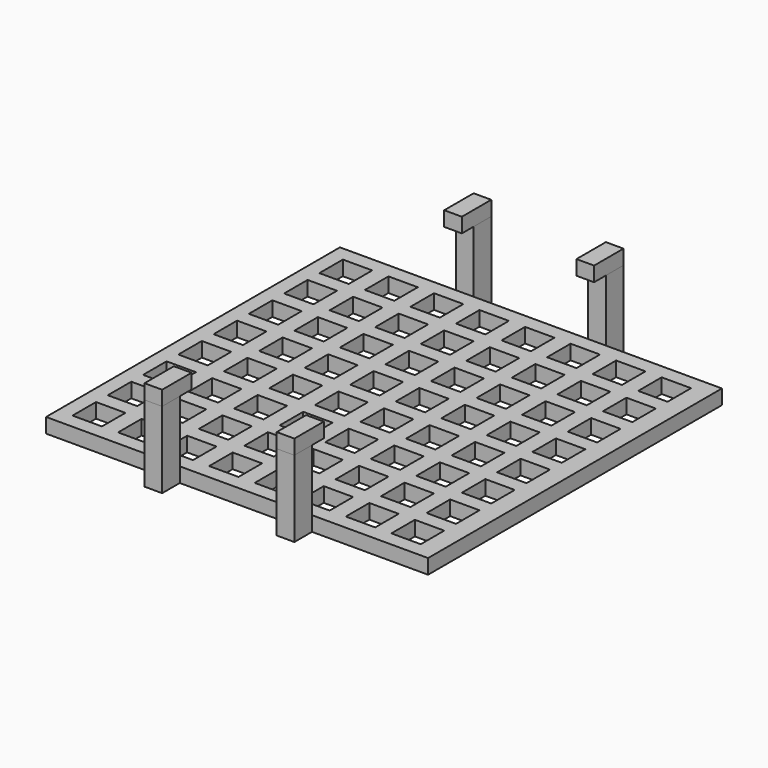
from build123d import *

# Parameters (mm, degrees)
F0_W     = 2
F0_H     = 2
F1_DEPTH = 1
F0_W_2   = 0.6
F0_H_2   = 1.5
F2_DEPTH = 5.2
F3_W     = 1.2
F3_H     = 2.5
F3_H_2   = 1
F3_H_3   = 1.5
F4_DEPTH = 1


with BuildPart() as f1:
    # F0 (on Top) → F1 (new body)
    with BuildSketch(Plane.XY):
        Polygon((5.1, -12.5), (13, -12.5), (13, 12.5), (5.1, 12.5), (4.5, 12.5), (3.9, 12.5), (-3.9, 12.5), (-4.5, 12.5), (-5.1, 12.5), (-13, 12.5), (-13, -12.5), (-5.1, -12.5), (-4.5, -12.5), (-3.9, -12.5), (3.9, -12.5), (4.5, -12.5), align=None)
        with Locations((-11, -10.5)):
            Rectangle(F0_W, F0_H, mode=Mode.SUBTRACT)
        with Locations((-11, -7.5)):
            Rectangle(F0_W, F0_H, mode=Mode.SUBTRACT)
        with Locations((-7.9, -10.5)):
            Rectangle(F0_W, F0_H, mode=Mode.SUBTRACT)
        with Locations((-7.9, -7.5)):
            Rectangle(F0_W, F0_H, mode=Mode.SUBTRACT)
        with Locations((-4.8, -10.5)):
            Rectangle(F0_W, F0_H, mode=Mode.SUBTRACT)
        with Locations((-4.8, -7.5)):
            Rectangle(F0_W, F0_H, mode=Mode.SUBTRACT)
        with Locations((-1.7, -10.5)):
            Rectangle(F0_W, F0_H, mode=Mode.SUBTRACT)
        with Locations((-1.7, -7.5)):
            Rectangle(F0_W, F0_H, mode=Mode.SUBTRACT)
        with Locations((-11, -4.5)):
            Rectangle(F0_W, F0_H, mode=Mode.SUBTRACT)
        with Locations((-7.9, -4.5)):
            Rectangle(F0_W, F0_H, mode=Mode.SUBTRACT)
        with Locations((-11, -1.5)):
            Rectangle(F0_W, F0_H, mode=Mode.SUBTRACT)
        with Locations((-7.9, -1.5)):
            Rectangle(F0_W, F0_H, mode=Mode.SUBTRACT)
        with Locations((-4.8, -4.5)):
            Rectangle(F0_W, F0_H, mode=Mode.SUBTRACT)
        with Locations((-1.7, -4.5)):
            Rectangle(F0_W, F0_H, mode=Mode.SUBTRACT)
        with Locations((-4.8, -1.5)):
            Rectangle(F0_W, F0_H, mode=Mode.SUBTRACT)
        with Locations((-1.7, -1.5)):
            Rectangle(F0_W, F0_H, mode=Mode.SUBTRACT)
        with Locations((1.4, -10.5)):
            Rectangle(F0_W, F0_H, mode=Mode.SUBTRACT)
        with Locations((1.4, -7.5)):
            Rectangle(F0_W, F0_H, mode=Mode.SUBTRACT)
        with Locations((4.5, -10.5)):
            Rectangle(F0_W, F0_H, mode=Mode.SUBTRACT)
        with Locations((4.5, -7.5)):
            Rectangle(F0_W, F0_H, mode=Mode.SUBTRACT)
        with Locations((7.6, -10.5)):
            Rectangle(F0_W, F0_H, mode=Mode.SUBTRACT)
        with Locations((7.6, -7.5)):
            Rectangle(F0_W, F0_H, mode=Mode.SUBTRACT)
        with Locations((10.7, -10.5)):
            Rectangle(F0_W, F0_H, mode=Mode.SUBTRACT)
        with Locations((10.7, -7.5)):
            Rectangle(F0_W, F0_H, mode=Mode.SUBTRACT)
        with Locations((1.4, -4.5)):
            Rectangle(F0_W, F0_H, mode=Mode.SUBTRACT)
        with Locations((4.5, -4.5)):
            Rectangle(F0_W, F0_H, mode=Mode.SUBTRACT)
        with Locations((1.4, -1.5)):
            Rectangle(F0_W, F0_H, mode=Mode.SUBTRACT)
        with Locations((4.5, -1.5)):
            Rectangle(F0_W, F0_H, mode=Mode.SUBTRACT)
        with Locations((7.6, -4.5)):
            Rectangle(F0_W, F0_H, mode=Mode.SUBTRACT)
        with Locations((10.7, -4.5)):
            Rectangle(F0_W, F0_H, mode=Mode.SUBTRACT)
        with Locations((7.6, -1.5)):
            Rectangle(F0_W, F0_H, mode=Mode.SUBTRACT)
        with Locations((10.7, -1.5)):
            Rectangle(F0_W, F0_H, mode=Mode.SUBTRACT)
        with Locations((-11, 1.5)):
            Rectangle(F0_W, F0_H, mode=Mode.SUBTRACT)
        with Locations((-7.9, 1.5)):
            Rectangle(F0_W, F0_H, mode=Mode.SUBTRACT)
        with Locations((-11, 4.5)):
            Rectangle(F0_W, F0_H, mode=Mode.SUBTRACT)
        with Locations((-7.9, 4.5)):
            Rectangle(F0_W, F0_H, mode=Mode.SUBTRACT)
        with Locations((-4.8, 1.5)):
            Rectangle(F0_W, F0_H, mode=Mode.SUBTRACT)
        with Locations((-1.7, 1.5)):
            Rectangle(F0_W, F0_H, mode=Mode.SUBTRACT)
        with Locations((-4.8, 4.5)):
            Rectangle(F0_W, F0_H, mode=Mode.SUBTRACT)
        with Locations((-1.7, 4.5)):
            Rectangle(F0_W, F0_H, mode=Mode.SUBTRACT)
        with Locations((-11, 7.5)):
            Rectangle(F0_W, F0_H, mode=Mode.SUBTRACT)
        with Locations((-7.9, 7.5)):
            Rectangle(F0_W, F0_H, mode=Mode.SUBTRACT)
        with Locations((-11, 10.5)):
            Rectangle(F0_W, F0_H, mode=Mode.SUBTRACT)
        with Locations((-7.9, 10.5)):
            Rectangle(F0_W, F0_H, mode=Mode.SUBTRACT)
        with Locations((-4.8, 7.5)):
            Rectangle(F0_W, F0_H, mode=Mode.SUBTRACT)
        with Locations((-1.7, 7.5)):
            Rectangle(F0_W, F0_H, mode=Mode.SUBTRACT)
        with Locations((-4.8, 10.5)):
            Rectangle(F0_W, F0_H, mode=Mode.SUBTRACT)
        with Locations((-1.7, 10.5)):
            Rectangle(F0_W, F0_H, mode=Mode.SUBTRACT)
        with Locations((1.4, 1.5)):
            Rectangle(F0_W, F0_H, mode=Mode.SUBTRACT)
        with Locations((4.5, 1.5)):
            Rectangle(F0_W, F0_H, mode=Mode.SUBTRACT)
        with Locations((1.4, 4.5)):
            Rectangle(F0_W, F0_H, mode=Mode.SUBTRACT)
        with Locations((4.5, 4.5)):
            Rectangle(F0_W, F0_H, mode=Mode.SUBTRACT)
        with Locations((7.6, 1.5)):
            Rectangle(F0_W, F0_H, mode=Mode.SUBTRACT)
        with Locations((10.7, 1.5)):
            Rectangle(F0_W, F0_H, mode=Mode.SUBTRACT)
        with Locations((7.6, 4.5)):
            Rectangle(F0_W, F0_H, mode=Mode.SUBTRACT)
        with Locations((10.7, 4.5)):
            Rectangle(F0_W, F0_H, mode=Mode.SUBTRACT)
        with Locations((1.4, 7.5)):
            Rectangle(F0_W, F0_H, mode=Mode.SUBTRACT)
        with Locations((4.5, 7.5)):
            Rectangle(F0_W, F0_H, mode=Mode.SUBTRACT)
        with Locations((1.4, 10.5)):
            Rectangle(F0_W, F0_H, mode=Mode.SUBTRACT)
        with Locations((4.5, 10.5)):
            Rectangle(F0_W, F0_H, mode=Mode.SUBTRACT)
        with Locations((7.6, 7.5)):
            Rectangle(F0_W, F0_H, mode=Mode.SUBTRACT)
        with Locations((10.7, 7.5)):
            Rectangle(F0_W, F0_H, mode=Mode.SUBTRACT)
        with Locations((7.6, 10.5)):
            Rectangle(F0_W, F0_H, mode=Mode.SUBTRACT)
        with Locations((10.7, 10.5)):
            Rectangle(F0_W, F0_H, mode=Mode.SUBTRACT)
    extrude(amount=F1_DEPTH)


with BuildPart() as f2:
    # F0 (on Top) → F2 (new body)
    with BuildSketch(Plane.XY):
        with Locations((4.8, -13.25)):
            Rectangle(F0_W_2, F0_H_2)
        with Locations((4.2, -13.25)):
            Rectangle(F0_W_2, F0_H_2)
        with Locations((-4.2, -13.25)):
            Rectangle(F0_W_2, F0_H_2)
        with Locations((-4.8, -13.25)):
            Rectangle(F0_W_2, F0_H_2)
        with Locations((4.8, 13.25)):
            Rectangle(F0_W_2, F0_H_2)
        with Locations((4.2, 13.25)):
            Rectangle(F0_W_2, F0_H_2)
        with Locations((-4.2, 13.25)):
            Rectangle(F0_W_2, F0_H_2)
        with Locations((-4.8, 13.25)):
            Rectangle(F0_W_2, F0_H_2)
    extrude(amount=F2_DEPTH)


with BuildPart() as f4:
    # F3 (on face) → F4 (new body)
    with BuildSketch(Plane.XY.offset(5.2)):
        with Locations((4.5, 12.75)):
            Rectangle(F3_W, F3_H)
        with Locations((-4.5, 12.75)):
            Rectangle(F3_W, F3_H)
        with Locations((4.5, -12)):
            Rectangle(F3_W, F3_H_2)
        with Locations((-4.5, -12.75)):
            Rectangle(F3_W, F3_H)
        with Locations((4.5, -13.25)):
            Rectangle(F3_W, F3_H_3)
        with Locations((4.5, -13.25)):
            Rectangle(F3_W, F3_H_3)
    extrude(amount=F4_DEPTH)


solid = Compound([f1.part, f2.part, f4.part])
